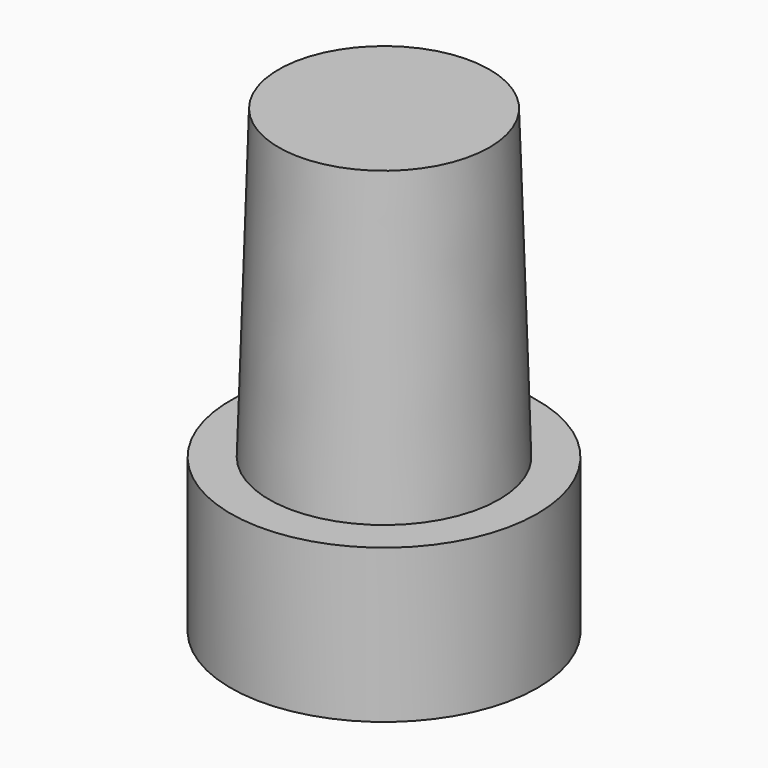
from build123d import *

# Parameters (mm, degrees)
F0_R     = 8
F1_DEPTH = 8
F2_R     = 6
F4_R     = 5.5


with BuildPart() as f1:
    # F0 (on Top) → F1 (new body)
    with BuildSketch(Plane.XY):
        Circle(F0_R)
    extrude(amount=F1_DEPTH)

    # F2 (on face) → F5 section 0
    with BuildSketch(Plane.XY.offset(8)):
        Circle(F2_R)
    # F4 (on offset) → F5 section 1
    with BuildSketch(Plane.XY.offset(24)):
        Circle(F4_R)
    loft()


solid = f1.part
